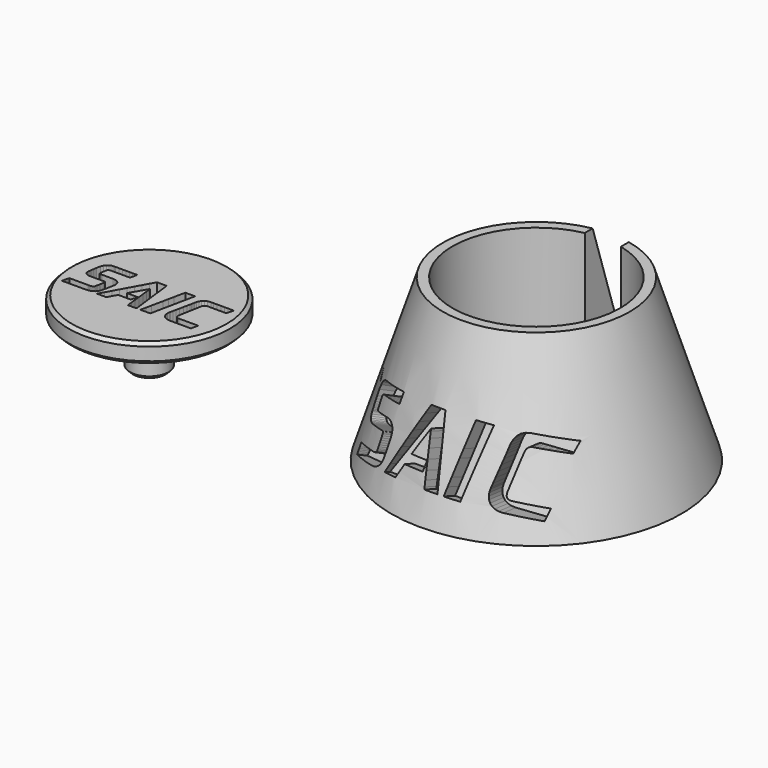
from build123d import *

# Parameters (mm, degrees)
F2_R      = 14.5
F0_R      = 22.5
F4_R      = 13
F5_DEPTH  = 32.3
F6_W      = 5.6572156609
F6_H      = 29.3696913868
F7_DEPTH  = 25
F9_DEPTH  = 40
F10_SCALE = 0.3
F13_ANGLE = -20
F14_ANGLE = 15
F17_ANGLE = 15
F19_R     = 12.5
F20_DEPTH = 3
F22_START = 1
F22_DEPTH = 24
F23_R     = 3
F24_DEPTH = 7
F25_SIZE  = 0.5


with BuildPart() as f3:
    # F2 (on offset) → F3 section 0
    with BuildSketch(Plane.XY.offset(25)):
        Circle(F2_R)
    # F0 (on Top) → F3 section 1
    with BuildSketch(Plane.XY):
        Circle(F0_R)
    loft()

    # F4 (on offset) → F5 (cut)
    with BuildSketch(Plane.XY.offset(25)):
        Circle(F4_R)
    extrude(amount=-F5_DEPTH, mode=Mode.SUBTRACT)

    # F6 (on Top) → F7 (cut)
    with BuildSketch(Plane.XY):
        with Locations((0.1572436595, 14.6848456934)):
            Rectangle(F6_W, F6_H)
    extrude(amount=F7_DEPTH, mode=Mode.SUBTRACT)


with BuildPart() as f9:
    # F8 (on Front) → F9 (new body)
    with BuildSketch(Plane.XZ):
        Polygon((33.608824, 7.380793), (33.861163, 8.65426), (33.951032, 9.095863), (34.071853, 9.585993), (34.249244, 10.091544), (34.508827, 10.579412), (34.876221, 11.016491), (35.377047, 11.369678), (36.036923, 11.605867), (36.88147, 11.691953), (37.880493, 11.692006), (39.701513, 11.692146), (42.050117, 11.692344), (44.631896, 11.69257), (47.152438, 11.692797), (49.317334, 11.692995), (50.832173, 11.693135), (51.402543, 11.693188), (51.568168, 12.382247), (51.733793, 13.071305), (51.899418, 13.760364), (52.065042, 14.449423), (52.230667, 15.138482), (52.396292, 15.82754), (52.561917, 16.516599), (52.727541, 17.205658), (52.1644, 17.205465), (50.638477, 17.204958), (48.395026, 17.20424), (45.679302, 17.203418), (42.736556, 17.202595), (39.812044, 17.201878), (37.151017, 17.20137), (34.99873, 17.201178), (32.752654, 16.903183), (31.024714, 16.098247), (29.740862, 14.91994), (28.82705, 13.501836), (28.209232, 11.977505), (27.813358, 10.480519), (27.565381, 9.144449), (27.391254, 8.102868), (27.118442, 6.745484), (26.666936, 4.57141), (26.101111, 1.878309), (25.485345, -1.036154), (24.884016, -3.874313), (24.3615, -6.338505), (23.982175, -8.131066), (23.810418, -8.954331), (23.649886, -10.46537), (23.76497, -11.944247), (24.167453, -13.338778), (24.869115, -14.596777), (25.881739, -15.666061), (27.217106, -16.494444), (28.886998, -17.029743), (30.903196, -17.219773), (32.923183, -17.219773), (34.943171, -17.219773), (36.963158, -17.219773), (38.983145, -17.219773), (41.003133, -17.219773), (43.02312, -17.219773), (45.043107, -17.219773), (47.063095, -17.219773), (47.216359, -16.525934), (47.369623, -15.832095), (47.522887, -15.138256), (47.676152, -14.444417), (47.829416, -13.750578), (47.98268, -13.056739), (48.135945, -12.3629), (48.289209, -11.669061), (46.430277, -11.669061), (44.571346, -11.669061), (42.712414, -11.669061), (40.853483, -11.669061), (38.994551, -11.669061), (37.135619, -11.669061), (35.276688, -11.669061), (33.417756, -11.669061), (32.472159, -11.588051), (31.7607, -11.355389), (31.256492, -10.986632), (30.932649, -10.497336), (30.762285, -9.903057), (30.718512, -9.219351), (30.774445, -8.461772), (30.903196, -7.645878), (31.086905, -6.63035), (31.270614, -5.614822), (31.454323, -4.599293), (31.638032, -3.583765), (31.821741, -2.568237), (32.00545, -1.552709), (32.189159, -0.537181), (32.372868, 0.478347), (32.373556, 0.478347), (32.374243, 0.478347), (32.37493, 0.478347), (32.375618, 0.478347), (32.376305, 0.478347), (32.376992, 0.478347), (32.37768, 0.478347), (32.378367, 0.478347), (32.415135, 0.697919), (32.517666, 1.304164), (32.674306, 2.218377), (32.873398, 3.361852), (33.103286, 4.655883), (33.352313, 6.021766), align=None)
    extrude(amount=F9_DEPTH)


with BuildPart() as f9b:
    # F8 (on Front) → F9, piece 2 (new body)
    with BuildSketch(Plane.XZ):
        Polygon((21.858446, 12.910002), (22.746934, 17.210667), (21.806812, 17.210667), (20.866691, 17.210667), (19.926569, 17.210667), (18.986447, 17.210667), (18.046325, 17.210667), (17.106203, 17.210667), (16.166081, 17.210667), (15.225959, 17.210667), (14.320974, 12.910002), (13.415989, 8.609337), (12.511004, 4.308672), (11.606018, 0.008006), (10.701033, -4.292659), (9.796048, -8.593324), (8.891063, -12.89399), (7.986078, -17.194655), (8.942696, -17.194655), (9.899315, -17.194655), (10.855933, -17.194655), (11.812552, -17.194655), (12.769171, -17.194655), (13.725789, -17.194655), (14.682408, -17.194655), (15.639027, -17.194655), (16.527515, -12.89399), (17.416004, -8.593324), (18.304492, -4.292659), (19.192981, 0.008006), (20.081469, 4.308672), (20.969957, 8.609337), align=None)
    extrude(amount=F9_DEPTH)


with BuildPart() as f9c:
    # F8 (on Front) → F9, piece 3 (new body)
    with BuildSketch(Plane.XZ):
        Polygon((-4.759179, 7.188816), (-4.416284, 7.786103), (-4.29092, 6.642875), (-3.98164, 3.780243), (-3.550282, -0.224857), (-3.058684, -4.795491), (-2.568686, -9.354722), (-2.142125, -13.325617), (-1.840841, -16.13124), (-1.726671, -17.194655), (-0.888784, -17.194655), (-0.050897, -17.194655), (0.78699, -17.194655), (1.624877, -17.194655), (2.462764, -17.194655), (3.300651, -17.194655), (4.138538, -17.194655), (4.976425, -17.194655), (4.460566, -12.89806), (3.944708, -8.601465), (3.42885, -4.30487), (2.912992, -0.008274), (2.397134, 4.288321), (1.881276, 8.584916), (1.365418, 12.881511), (0.84956, 17.178106), (-0.089442, 17.178106), (-1.028444, 17.178106), (-1.967446, 17.178106), (-2.906448, 17.178106), (-3.845449, 17.178106), (-4.784451, 17.178106), (-5.723453, 17.178106), (-6.662455, 17.178106), (-9.03152, 12.881511), (-11.400586, 8.584916), (-13.769651, 4.288321), (-16.138717, -0.008274), (-18.507782, -4.30487), (-20.876848, -8.601465), (-23.245913, -12.89806), (-25.614979, -17.194655), (-24.715034, -17.194655), (-23.81509, -17.194655), (-22.915145, -17.194655), (-22.015201, -17.194655), (-21.115256, -17.194655), (-20.215312, -17.194655), (-19.315367, -17.194655), (-18.415423, -17.194655), (-18.259333, -16.914446), (-17.846511, -16.173262), (-17.260128, -15.120266), (-16.583355, -13.904623), (-15.899364, -12.675496), (-15.291327, -11.582049), (-14.842414, -10.773445), (-14.635797, -10.39885), (-14.099015, -10.39885), (-12.879773, -10.39885), (-11.210478, -10.39885), (-9.323537, -10.39885), (-7.451356, -10.39885), (-5.826343, -10.39885), (-4.680903, -10.39885), (-4.247444, -10.39885), (-4.105636, -9.75944), (-3.963828, -9.12003), (-3.822021, -8.480621), (-3.680213, -7.841211), (-3.538405, -7.201801), (-3.396597, -6.562392), (-3.254789, -5.922982), (-3.112981, -5.283572), (-6.228514, -5.283572), (-8.414819, -5.283572), (-9.849812, -5.283572), (-10.711404, -5.283572), (-11.177509, -5.283572), (-11.426039, -5.283572), (-11.634907, -5.283572), (-11.982026, -5.283572), (-11.981883, -5.282849), (-11.982778, -5.281581), (-11.984397, -5.279964), (-11.986427, -5.278197), (-11.988553, -5.276478), (-11.99046, -5.275005), (-11.991834, -5.273976), (-11.992363, -5.273588), (-11.498106, -4.419637), (-10.572529, -2.825059), (-9.366613, -0.748951), (-8.031338, 1.549588), (-6.717687, 3.811461), (-5.57664, 5.777569), align=None)
    extrude(amount=F9_DEPTH)


with BuildPart() as f9d:
    # F8 (on Front) → F9, piece 4 (new body)
    with BuildSketch(Plane.XZ):
        Polygon((-40.611578, 8.001945), (-40.511058, 8.533675), (-40.361129, 9.351932), (-40.233657, 10.031446), (-40.077248, 10.581249), (-39.840507, 11.010373), (-39.47204, 11.327851), (-38.920453, 11.542716), (-38.13435, 11.664001), (-37.062338, 11.700737), (-35.217679, 11.69772), (-33.063533, 11.69523), (-30.771097, 11.693229), (-28.51157, 11.691678), (-26.456148, 11.690539), (-24.776031, 11.689773), (-23.642416, 11.689342), (-23.2265, 11.689207), (-23.059283, 12.379562), (-22.892067, 13.069916), (-22.72485, 13.760271), (-22.557633, 14.450625), (-22.390417, 15.14098), (-22.2232, 15.831334), (-22.055983, 16.521689), (-21.888767, 17.212043), (-22.348177, 17.212037), (-23.613781, 17.211992), (-25.516636, 17.21187), (-27.887801, 17.211634), (-30.558334, 17.211244), (-33.359292, 17.210662), (-36.121735, 17.209849), (-38.67672, 17.208768), (-39.607474, 17.219772), (-40.71016, 17.174152), (-41.913617, 16.953001), (-43.146683, 16.43741), (-44.338198, 15.508473), (-45.417002, 14.047281), (-46.311932, 11.934928), (-46.951828, 9.052505), (-47.150582, 7.716863), (-47.326432, 6.546309), (-47.47955, 5.526096), (-47.610111, 4.641478), (-47.718289, 3.877708), (-47.804256, 3.22004), (-47.868187, 2.653728), (-47.910255, 2.164025), (-47.858595, 1.101974), (-47.571405, 0.228278), (-47.088137, -0.471472), (-46.448241, -1.011685), (-45.69117, -1.406768), (-44.856375, -1.671132), (-43.983307, -1.819183), (-43.111419, -1.865332), (-41.79876, -1.865658), (-40.25647, -1.866517), (-38.609271, -1.867732), (-36.981883, -1.869124), (-35.499029, -1.870517), (-34.28543, -1.871732), (-33.465808, -1.872591), (-33.164885, -1.872917), (-32.643711, -1.874821), (-32.204903, -1.889576), (-31.847662, -1.930742), (-31.571189, -2.01188), (-31.374685, -2.146552), (-31.25735, -2.348318), (-31.218385, -2.63074), (-31.256992, -3.007379), (-31.410148, -3.841379), (-31.5908, -4.797456), (-31.788076, -5.821736), (-31.991104, -6.860341), (-32.189012, -7.859397), (-32.37093, -8.765026), (-32.525984, -9.523354), (-32.643303, -10.080503), (-32.869457, -10.67729), (-33.234486, -11.10386), (-33.71552, -11.388433), (-34.289686, -11.559231), (-34.934114, -11.644472), (-35.625932, -11.672378), (-36.342271, -11.671168), (-37.060257, -11.669061), (-38.861871, -11.669061), (-40.663485, -11.669061), (-42.465099, -11.669061), (-44.266713, -11.669061), (-46.068327, -11.669061), (-47.869941, -11.669061), (-49.671555, -11.669061), (-51.473169, -11.669061), (-51.629966, -12.359761), (-51.786762, -13.05046), (-51.943558, -13.741159), (-52.100355, -14.431858), (-52.257151, -15.122557), (-52.413948, -15.813256), (-52.570744, -16.503956), (-52.727541, -17.194655), (-52.109328, -17.194655), (-50.446794, -17.194655), (-48.028096, -17.194655), (-45.14139, -17.194655), (-42.074834, -17.194655), (-39.116584, -17.194655), (-36.554798, -17.194655), (-34.677631, -17.194655), (-33.260144, -17.128041), (-31.900346, -16.919805), (-30.623955, -16.557354), (-29.456687, -16.028098), (-28.424261, -15.319445), (-27.552394, -14.418802), (-26.866804, -13.313579), (-26.393207, -11.991183), (-26.048858, -10.584409), (-25.742611, -9.274454), (-25.468218, -8.04148), (-25.219434, -6.865648), (-24.990012, -5.727119), (-24.773707, -4.606054), (-24.564271, -3.482614), (-24.355459, -2.336961), (-24.238146, -0.993505), (-24.382481, 0.237341), (-24.776712, 1.335073), (-25.409088, 2.279192), (-26.267856, 3.049194), (-27.341264, 3.624579), (-28.617561, 3.984844), (-30.084994, 4.109489), (-30.661618, 4.109489), (-31.748855, 4.109489), (-33.165627, 4.109489), (-34.730856, 4.109489), (-36.263466, 4.109489), (-37.582379, 4.109489), (-38.506517, 4.109489), (-38.854802, 4.109489), (-39.230232, 4.102716), (-39.633158, 4.098649), (-40.035091, 4.121667), (-40.407545, 4.196149), (-40.722031, 4.346473), (-40.950064, 4.59702), (-41.063155, 4.972167), (-41.032817, 5.496293), (-40.98536, 5.765942), (-40.937838, 6.055017), (-40.887747, 6.369522), (-40.83258, 6.715463), (-40.769833, 7.098843), (-40.697001, 7.525669), align=None)
    extrude(amount=F9_DEPTH)


with BuildPart() as f9d_1:
    # F10: moved
    add(f9d.part.scale(F10_SCALE))


with BuildPart() as f9c_1:
    # F10: moved
    add(f9c.part.scale(F10_SCALE))


with BuildPart() as f9b_1:
    # F10: moved
    add(f9b.part.scale(F10_SCALE))


with BuildPart() as f9_1:
    # F10: moved
    add(f9.part.scale(F10_SCALE))


with BuildPart() as f9d_2:
    # F11: moved
    add(f9d_1.part.moved(Location((0, -9.4, 12.2))))


with BuildPart() as f9c_2:
    # F11: moved
    add(f9c_1.part.moved(Location((0, -9.4, 12.2))))


with BuildPart() as f9b_2:
    # F11: moved
    add(f9b_1.part.moved(Location((0, -9.4, 12.2))))


with BuildPart() as f9_2:
    # F11: moved
    add(f9_1.part.moved(Location((0, -9.4, 12.2))))


with BuildPart() as f9c_3:
    # F12: moved
    add(f9c_2.part.moved(Location((0, -5.1, 0))))


with BuildPart() as f9b_3:
    # F12: moved
    add(f9b_2.part.moved(Location((0, -5.1, 0))))


with BuildPart() as f9d_3:
    # F13: moved
    add(f9d_2.part.rotate(Axis((-0.87193425, -26.5, 17.3534318), (1, 0, 0)), F13_ANGLE))


with BuildPart() as f9c_4:
    # F13: moved
    add(f9c_3.part.rotate(Axis((-0.87193425, -26.5, 17.3534318), (1, 0, 0)), F13_ANGLE))


with BuildPart() as f9b_4:
    # F13: moved
    add(f9b_3.part.rotate(Axis((-0.87193425, -26.5, 17.3534318), (1, 0, 0)), F13_ANGLE))


with BuildPart() as f9_3:
    # F13: moved
    add(f9_2.part.rotate(Axis((-0.87193425, -26.5, 17.3534318), (1, 0, 0)), F13_ANGLE))


with BuildPart() as f9d_4:
    # F14: moved
    add(f9d_3.part.rotate(Axis((-15.60658695, -13.6391945643, 2.6911490879), (-0.2213793787, -0.333533858, -0.9163767436)), F14_ANGLE))


with BuildPart() as f9d_5:
    # F15: moved
    add(f9d_4.part.moved(Location((0.8, 0, -0.4))))


with BuildPart() as f9_4:
    # F16: moved
    add(f9_3.part.moved(Location((-0.5, 0, 0.4))))


with BuildPart() as f9_5:
    # F17: moved
    add(f9_4.part.rotate(Axis((13.77985585, -13.7115141763, 2.8924525868), (0.2156945318, 0.3339692934, 0.9175730925)), F17_ANGLE))


with BuildPart() as f3_1:
    add(f3.part)

    # F18: cut F9d, F9c, F9b, F9
    add(f9d_5.part, mode=Mode.SUBTRACT)
    add(f9c_4.part, mode=Mode.SUBTRACT)
    add(f9b_4.part, mode=Mode.SUBTRACT)
    add(f9_5.part, mode=Mode.SUBTRACT)


with BuildPart() as f20:
    # F19 (on Top) → F20 (new body)
    with BuildSketch(Plane.XY):
        with Locations((-60.0354075432, 0)):
            Circle(F19_R)
    extrude(amount=F20_DEPTH)

    # F21 (on Top) → F22 (cut)
    with BuildSketch(Plane.XY.offset(F22_START)):
        Polygon((-53.3804930988, 1.2994683041), (-53.3299194157, 1.5546960591), (-53.3119079061, 1.6432019586), (-53.2876930088, 1.7414336204), (-53.2521403744, 1.8427559529), (-53.2001148517, 1.9405342654), (-53.1264818907, 2.0281334666), (-53.0261065409, 2.0989190662), (-52.8938544526, 2.1462559726), (-52.7245906752, 2.1635092949), (-52.5243668787, 2.1635199171), (-52.1593987668, 2.1635479759), (-51.6886924773, 2.1635876589), (-51.1712533461, 2.1636329538), (-50.6660873102, 2.163678449), (-50.2321997058, 2.1637181321), (-49.9285962695, 2.1637461909), (-49.8142829385, 2.1637568131), (-49.7810884412, 2.3018577467), (-49.7478939439, 2.43995848), (-49.7146994466, 2.5780594136), (-49.6815051496, 2.7161603472), (-49.6483106523, 2.8542612809), (-49.615116155, 2.9923620141), (-49.5819216577, 3.1304629477), (-49.5487273608, 3.2685638814), (-49.6615918584, 3.2685252004), (-49.9674167456, 3.2684235876), (-50.4170483122, 3.2682796864), (-50.9613326477, 3.2681149414), (-51.5511166431, 3.2679499961), (-52.1372461873, 3.2678062953), (-52.6705681715, 3.2677044821), (-53.1019286852, 3.2676660015), (-53.5520863533, 3.2079419609), (-53.8983994081, 3.0466170045), (-54.1557085208, 2.8104611792), (-54.3388543623, 2.5262453336), (-54.4626772027, 2.2207395144), (-54.542018114, 1.9207141693), (-54.5917175668, 1.6529395456), (-54.6266160316, 1.4441862915), (-54.6812929053, 1.1721399243), (-54.7717835601, 0.7364128687), (-54.885185984, 0.196662626), (-55.0085975634, -0.3874529016), (-55.129115685, -0.9562756116), (-55.2338381361, -1.4501480026), (-55.3098623033, -1.8094123728), (-55.3442857737, -1.9744108202), (-55.3764595339, -2.277252662), (-55.3533944439, -2.5736486084), (-55.2727289595, -2.8531399627), (-55.1321021375, -3.1052676272), (-54.9291524339, -3.3195731058), (-54.6615187052, -3.4855973007), (-54.3268396077, -3.5928817156), (-53.9227539979, -3.6309674534), (-53.5179089982, -3.6309674534), (-53.1130637981, -3.6309674534), (-52.7082187984, -3.6309674534), (-52.3033737987, -3.6309674534), (-51.8985285986, -3.6309674534), (-51.4936835989, -3.6309674534), (-51.0888385992, -3.6309674534), (-50.6839933991, -3.6309674534), (-50.6532762886, -3.4919085141), (-50.622559178, -3.3528495747), (-50.5918420674, -3.2137906353), (-50.5611247564, -3.074731696), (-50.5304076459, -2.9356727566), (-50.4996905353, -2.7966138173), (-50.4689732243, -2.6575548779), (-50.4382561137, -2.5184959386), (-50.8108225337, -2.5184959386), (-51.1833887532, -2.5184959386), (-51.5559551732, -2.5184959386), (-51.9285213927, -2.5184959386), (-52.3010878127, -2.5184959386), (-52.6736542327, -2.5184959386), (-53.0462204522, -2.5184959386), (-53.4187868722, -2.5184959386), (-53.6083030508, -2.5022599462), (-53.7508933836, -2.4556299197), (-53.8519465526, -2.3817237869), (-53.9168510392, -2.2836592751), (-53.9509953251, -2.1645541118), (-53.9597682925, -2.0275260243), (-53.9485582226, -1.8756923392), (-53.9227539979, -1.7121711848), (-53.8859351124, -1.5086394626), (-53.8491162269, -1.3051077405), (-53.8122973414, -1.1015758179), (-53.7754784559, -0.8980440958), (-53.7386595704, -0.6945123736), (-53.7018406849, -0.4909806515), (-53.6650217994, -0.2874489293), (-53.628202914, -0.0839172071), (-53.6280650253, -0.0839172071), (-53.627927337, -0.0839172071), (-53.6277896487, -0.0839172071), (-53.62765176, -0.0839172071), (-53.6275140718, -0.0839172071), (-53.6273763835, -0.0839172071), (-53.6272384948, -0.0839172071), (-53.6271008065, -0.0839172071), (-53.6197317784, -0.0399106733), (-53.5991825558, 0.081592711), (-53.5677888286, 0.2648189208), (-53.5278868883, 0.4939937303), (-53.4818128258, 0.7533429141), (-53.4319029325, 1.0270926475), align=None)
        Polygon((-55.7354992338, 2.4076301962), (-55.5574288185, 3.2695677832), (-55.7458476998, 3.2695677832), (-55.9342663807, 3.2695677832), (-56.122685262, 3.2695677832), (-56.3111041433, 3.2695677832), (-56.4995230246, 3.2695677832), (-56.6879419059, 3.2695677832), (-56.8763607872, 3.2695677832), (-57.0647796685, 3.2695677832), (-57.2461564061, 2.4076301962), (-57.4275331437, 1.5456926092), (-57.6089098813, 0.6837550221), (-57.7902868193, -0.1781827653), (-57.9716635569, -1.0401203523), (-58.1530402945, -1.9020579393), (-58.3344170321, -2.7639957267), (-58.5157937697, -3.6259333137), (-58.3240687665, -3.6259333137), (-58.132343563, -3.6259333137), (-57.9406185598, -3.6259333137), (-57.7488933563, -3.6259333137), (-57.5571681527, -3.6259333137), (-57.3654431496, -3.6259333137), (-57.173717946, -3.6259333137), (-56.9819927425, -3.6259333137), (-56.8039223271, -2.7639957267), (-56.6258517114, -1.9020579393), (-56.447781296, -1.0401203523), (-56.2697106803, -0.1781827653), (-56.0916402649, 0.6837550221), (-55.9135698496, 1.5456926092), align=None)
        Polygon((-61.0701931624, 1.2609923493), (-61.0014702814, 1.3807003748), (-60.9763448779, 1.1515750689), (-60.914359102, 0.5778474899), (-60.8279065014, -0.2248530761), (-60.7293806237, -1.1408977439), (-60.6311754173, -2.0546570269), (-60.5456842295, -2.8505022402), (-60.4853010088, -3.4128040979), (-60.4624191023, -3.6259333137), (-60.2944901195, -3.6259333137), (-60.1265611367, -3.6259333137), (-59.9586321538, -3.6259333137), (-59.790703171, -3.6259333137), (-59.6227741882, -3.6259333137), (-59.4548452053, -3.6259333137), (-59.2869162225, -3.6259333137), (-59.1189872396, -3.6259333137), (-59.2223754974, -2.7648114345), (-59.3257635548, -1.9036895553), (-59.4291516122, -1.0425676761), (-59.5325396696, -0.1814455965), (-59.6359277269, 0.6796762827), (-59.7393157843, 1.5407981619), (-59.8427038417, 2.4019200412), (-59.946091899, 3.2630419204), (-60.1342863104, 3.2630419204), (-60.3224807217, 3.2630419204), (-60.5106751331, 3.2630419204), (-60.6988695444, 3.2630419204), (-60.8870637554, 3.2630419204), (-61.0752581667, 3.2630419204), (-61.2634525781, 3.2630419204), (-61.4516469894, 3.2630419204), (-61.9264540645, 2.4019200412), (-62.40126134, 1.5407981619), (-62.8760684151, 0.6796762827), (-63.3508756906, -0.1814455965), (-63.8256827657, -1.0425676761), (-64.3004900412, -1.9036895553), (-64.7752971163, -2.7648114345), (-65.2501043918, -3.6259333137), (-65.069737769, -3.6259333137), (-64.8893713466, -3.6259333137), (-64.7090047239, -3.6259333137), (-64.5286383015, -3.6259333137), (-64.3482716787, -3.6259333137), (-64.1679052564, -3.6259333137), (-63.9875386336, -3.6259333137), (-63.8071722112, -3.6259333137), (-63.7758887149, -3.5697739362), (-63.6931510921, -3.4212261306), (-63.5756284419, -3.2101850866), (-63.4399898636, -2.9665463949), (-63.3029046565, -2.7202052452), (-63.1810421202, -2.5010570278), (-63.0910711534, -2.3389969323), (-63.0496610556, -2.2639207498), (-62.9420794184, -2.2639207498), (-62.6977194165, -2.2639207498), (-62.3631599694, -2.2639207498), (-61.9849799967, -2.2639207498), (-61.1251641227, -2.2639207498), (-60.7787442721, -1.2387187458), (-61.8028550927, -1.2387187458), (-62.0904558251, -1.2387187458), (-62.2631357547, -1.2387187458), (-62.3565523354, -1.2387187458), (-62.4063626202, -1.2387187458), (-62.4482238626, -1.2387187458), (-62.517793316, -1.2387187458), (-62.517764656, -1.2385738425), (-62.5179440315, -1.2383197104), (-62.5182685109, -1.2379956319), (-62.5186753627, -1.2376414904), (-62.5191014548, -1.2372969691), (-62.519483655, -1.2370017511), (-62.5197590315, -1.2367955193), (-62.5198650535, -1.2367177565), (-62.42080626, -1.0655692331), (-62.2353024819, -0.7459845378), (-61.9936132717, -0.3298917894), (-61.7259979816, 0.1307804926), (-61.4627165651, 0.5841041892), (-61.2340283744, 0.9781507809), align=None)
        Polygon((-68.2557168623, 1.4239593435), (-68.2355706834, 1.5305284609), (-68.2055219722, 1.6945232068), (-68.1799740841, 1.8307111353), (-68.1486266539, 1.9409024363), (-68.1011791158, 2.0269072995), (-68.0273311047, 2.0905361153), (-67.9167822552, 2.1335992741), (-67.7592318013, 2.157907166), (-67.5443795781, 2.1652697807), (-67.1746737471, 2.1646651148), (-66.7429406535, 2.1641660699), (-66.2834915324, 2.1637650303), (-65.8306380202, 2.1634541795), (-65.4186911517, 2.1632259016), (-65.0819627637, 2.1630723801), (-64.8547640915, 2.1629859993), (-64.7714063704, 2.1629589426), (-64.7378928051, 2.3013196201), (-64.7043794402, 2.4396800971), (-64.6708658748, 2.5780407746), (-64.6373523095, 2.7164012516), (-64.6038389446, 2.854761929), (-64.5703253792, 2.9931224061), (-64.5368118139, 3.1314830835), (-64.503298449, 3.2698435606), (-64.5953732204, 3.269842358), (-64.8490250761, 3.2698333392), (-65.2303945264, 3.269808888), (-65.7056224827, 3.2697615889), (-66.2408496557, 3.2696834253), (-66.8022165559, 3.2695667811), (-67.3558642949, 3.2694038399), (-67.8679333833, 3.2691871863), (-68.0544747337, 3.2713926037), (-68.2754746279, 3.2622494612), (-68.5166710063, 3.2179264648), (-68.7638016088, 3.1145919195), (-69.0026045762, 2.9284147315), (-69.2188180494, 2.6355632058), (-69.3981795679, 2.2122062488), (-69.5264272724, 1.6345121653), (-69.5662614709, 1.3668233213), (-69.6015052587, 1.1322213492), (-69.632193108, 0.9277506612), (-69.6583600922, 0.7504558697), (-69.6800410844, 0.5973813868), (-69.6972705567, 0.4655718251), (-69.7100835826, 0.3520717969), (-69.7185148346, 0.2539257143), (-69.7081611577, 0.0410698708), (-69.6506026509, -0.1340359377), (-69.5537462685, -0.2742795574), (-69.425498564, -0.3825488343), (-69.2737666921, -0.4617312137), (-69.1064574067, -0.5147149425), (-68.9314774617, -0.5443872657), (-68.7567340118, -0.5536364301), (-68.4936514115, -0.5537017669), (-68.1845462566, -0.5538739273), (-67.8544152812, -0.5541174372), (-67.5282548186, -0.5543964212), (-67.2310618034, -0.5546756058), (-66.9878327694, -0.5549191156), (-66.8235644507, -0.555091276), (-66.7632535814, -0.5551566128), (-66.6588000934, -0.5555382117), (-66.5708543667, -0.558495403), (-66.4992562661, -0.5667458766), (-66.4438456562, -0.5830075226), (-66.4044624019, -0.6099984318), (-66.3809461673, -0.6504362942), (-66.3731368174, -0.7070392003), (-66.3808744171, -0.7825250404), (-66.4115698824, -0.9496749923), (-66.4477760851, -1.1412915684), (-66.4873140634, -1.3465773629), (-66.5280048553, -1.5547341684), (-66.5676694988, -1.7549645788), (-66.6041294327, -1.9364703866), (-66.6352052944, -2.0884541859), (-66.6587183222, -2.2001177693), (-66.7040440179, -2.319725585), (-66.7772029865, -2.4052185765), (-66.8736116315, -2.4622525852), (-66.9886857552, -2.4964838532), (-67.1178417614, -2.5135678209), (-67.2564956528, -2.5191607304), (-67.4000640333, -2.5189182227), (-67.5439625049, -2.5184959386), (-67.9050412738, -2.5184959386), (-68.2661200428, -2.5184959386), (-68.6271988117, -2.5184959386), (-68.9882775807, -2.5184959386), (-69.3493563496, -2.5184959386), (-69.7104351186, -2.5184959386), (-70.0715138875, -2.5184959386), (-70.4325926565, -2.5184959386), (-70.4640178495, -2.6569257608), (-70.4954428422, -2.7953553826), (-70.5268678348, -2.9337850044), (-70.5582930278, -3.0722146261), (-70.5897180204, -3.2106442479), (-70.6211432135, -3.3490738697), (-70.6525682061, -3.4875036919), (-70.6839933991, -3.6259333137), (-70.5600913929, -3.6259333137), (-70.2268869829, -3.6259333137), (-69.7421324815, -3.6259333137), (-69.1635800008, -3.6259333137), (-68.548982054, -3.6259333137), (-67.956090753, -3.6259333137), (-67.442658611, -3.6259333137), (-67.0664375395, -3.6259333137), (-66.7823453527, -3.6125825621), (-66.5098151726, -3.5708479849), (-66.2540013907, -3.4982056981), (-66.0200579974, -3.3921324188), (-65.8131395848, -3.2501044634), (-65.6384003437, -3.0695979478), (-65.5009946657, -2.848089589), (-65.4060765413, -2.583055503), (-65.3370622502, -2.3011104115), (-65.275684347, -2.0385697459), (-65.2206906099, -1.791457582), (-65.1708294185, -1.5557977952), (-65.1248487515, -1.327614261), (-65.0814969886, -1.1029308549), (-65.0395219079, -0.8777714521), (-64.997671889, -0.6481601287), (-64.9741600637, -0.3789052058), (-65.0030876276, -0.1322195348), (-65.0820992495, 0.0877874807), (-65.2088397986, 0.2770074391), (-65.3809537432, 0.431330937), (-65.5960857522, 0.5466493723), (-65.8518806947, 0.6188535418), (-66.1459830391, 0.6438348437), (-66.2615497943, 0.6438348437), (-66.479453406, 0.6438348437), (-66.7634022928, 0.6438348437), (-67.077104873, 0.6438348437), (-67.3842699662, 0.6438348437), (-67.6486059906, 0.6438348437), (-67.833821365, 0.6438348437), (-67.9036245076, 0.6438348437), (-67.9788680405, 0.6424774017), (-68.0596223109, 0.6416622951), (-68.1401775646, 0.6462755536), (-68.2148246487, 0.6612032068), (-68.2778538091, 0.6913310837), (-68.3235560932, 0.7415456148), (-68.3462217469, 0.816732429), (-68.3401414169, 0.9217775556), (-68.3306301036, 0.9758205021), (-68.3211057631, 1.0337567999), (-68.3110665446, 1.0967897682), (-68.3000099961, 1.1661231273), (-68.2874342671, 1.242959996), (-68.2728373063, 1.328504295), align=None)
    extrude(amount=F22_DEPTH, mode=Mode.SUBTRACT)

    # F23 (on Top) → F24 (join)
    with BuildSketch(Plane.XY):
        with Locations((-60.0354075432, 0)):
            Circle(F23_R)
        with BuildLine():
            ThreePointArc((-59.7854075432, 0.9682458366), (-59.328300762, 0.7071067812), (-59.0671617066, 0.25))
            Line((-59.0671617066, 0.25), (-58.2854075432, 0.25))
            Line((-58.2854075432, 0.25), (-58.2854075432, -0.25))
            Line((-58.2854075432, -0.25), (-59.0671617066, -0.25))
            ThreePointArc((-59.0671617066, -0.25), (-59.328300762, -0.7071067812), (-59.7854075432, -0.9682458366))
            Line((-59.7854075432, -0.9682458366), (-59.7854075432, -1.75))
            Line((-59.7854075432, -1.75), (-60.2854075432, -1.75))
            Line((-60.2854075432, -1.75), (-60.2854075432, -0.9682458366))
            ThreePointArc((-60.2854075432, -0.9682458366), (-60.7425143244, -0.7071067812), (-61.0036533797, -0.25))
            Line((-61.0036533797, -0.25), (-61.7854075432, -0.25))
            Line((-61.7854075432, -0.25), (-61.7854075432, 0.25))
            Line((-61.7854075432, 0.25), (-61.0036533797, 0.25))
            ThreePointArc((-61.0036533797, 0.25), (-60.7425143244, 0.7071067812), (-60.2854075432, 0.9682458366))
            Line((-60.2854075432, 0.9682458366), (-60.2854075432, 1.75))
            Line((-60.2854075432, 1.75), (-59.7854075432, 1.75))
            Line((-59.7854075432, 1.75), (-59.7854075432, 0.9682458366))
        make_face(mode=Mode.SUBTRACT)
    extrude(amount=-F24_DEPTH)

    # F25
    f25_edges = [f20.edges().sort_by_distance(p)[0] for p in [
        (-63.035408, 0, -7),
        (-72.535408, 0, 3),
        (-72.535408, 0, 0),
    ]]
    chamfer(f25_edges, length=F25_SIZE)


solid = Compound([f3_1.part, f20.part])
